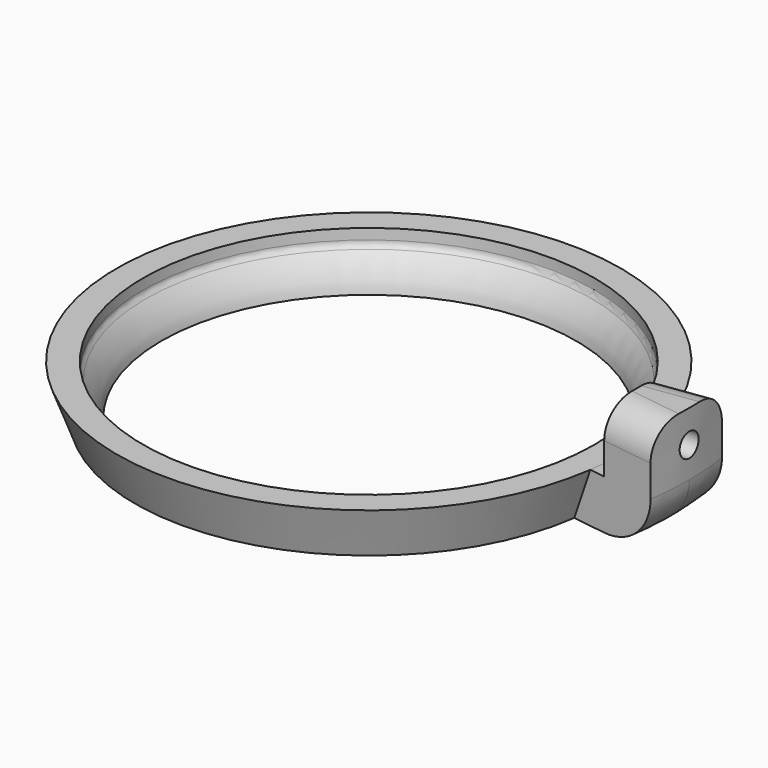
from build123d import *

# Parameters (mm, degrees)
REVOLUTION001_ANGLE = 16
FILLET_R            = 6


with BuildPart() as part:
    # Sketch → Revolution (revolve)
    with BuildSketch(Plane.XZ):
        with BuildLine():
            ThreePointArc((42.295694, 49.859657), (40.314757, 47.066424), (39.35, 43.780773))
            Line((44.35, 43.780773), (39.35, 43.780773))
            Line((47.827156, 53.147992), (44.35, 43.780773))
            Line((42.827156, 53.147992), (47.827156, 53.147992))
            Line((42.827156, 51.147992), (42.827156, 53.147992))
            ThreePointArc((42.295694, 49.859657), (42.689073, 50.451167), (42.827156, 51.147992))
        make_face()
    revolve(axis=Axis((0, 0, 0), (0, 0, 1)))

    # Sketch004 → Revolution001 (revolve, symmetric)
    with BuildSketch(Plane.XZ) as revolution001_sk:
        with BuildLine():
            Line((44.35, 43.780773), (44.072018, 50.32))
            Line((44.072018, 50.32), (47.83229, 53.160461))
            Line((47.83229, 53.160461), (50.83229, 53.160461))
            Line((50.83229, 53.160461), (50.83229, 65.160461))
            Line((50.83229, 65.160461), (60.83229, 65.160461))
            Line((60.83229, 65.160461), (60.83229, 53.160461))
            add(Edge.make_bspline(
                [(50.83229, 43.780773), (60.83229, 43.780773), (60.83229, 53.160461)],
                knots=[4.712389, 4.712389, 4.712389, 6.283185, 6.283185, 6.283185], degree=2, weights=[1, 0.707107, 1]))
            Line((50.83229, 43.780773), (44.35, 43.780773))
        make_face()
    revolve(axis=Axis((0, 0, 0), (0, 0, 1)), revolution_arc=REVOLUTION001_ANGLE / 2)
    revolve(revolution001_sk.sketch, axis=Axis((0, 0, 0), (0, 0, -1)), revolution_arc=REVOLUTION001_ANGLE / 2)

    # Sketch003 → Groove (revolve, cut)
    with BuildSketch(Plane(origin=(51, 0, 59), x_dir=(-1, 0, 0), z_dir=(0, -1, 0))):
        Polygon((0, 5), (-2, 2.25), (-42.222773, 2.25), (-42.222773, 0), (36.192486, 0), (36.192486, 5), align=None)
    revolve(axis=Axis((51, 0, 59), (-1, 0, 0)), mode=Mode.SUBTRACT)

    # Fillet
    fillet_edges = [part.edges().sort_by_distance(p)[0] for p in [
        (55.288934, -7.770353, 65.160461),
        (55.288934, 7.770353, 65.160461),
    ]]
    fillet(fillet_edges, radius=FILLET_R)


solid = part.part
